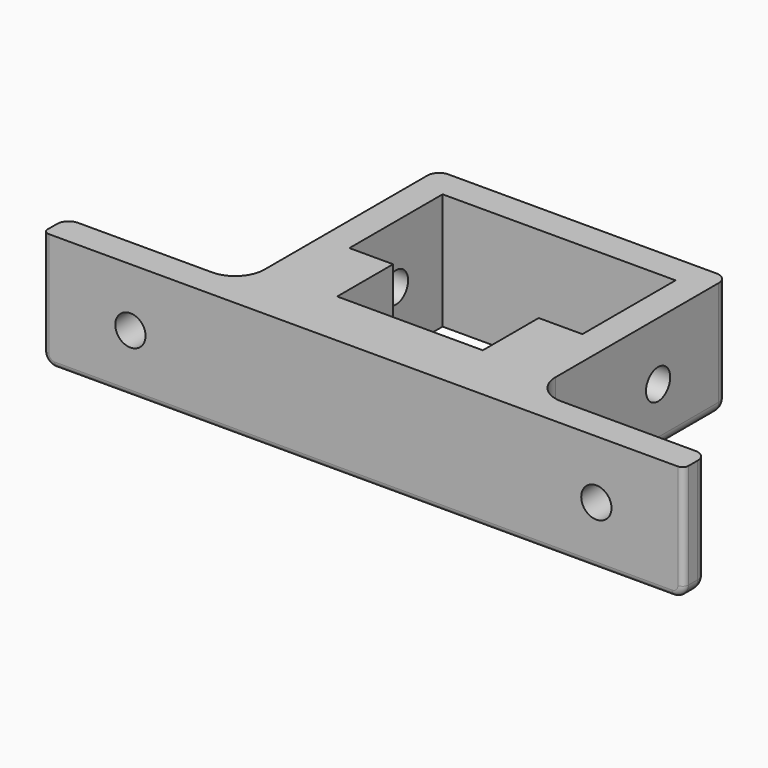
from build123d import *

# Parameters (mm, degrees)
PAD_DEPTH            = 20
SKETCH001_R          = 2.6
POCKET_DEPTH         = 5
SKETCH002_R          = 2.6
POCKET001_DEPTH      = 35.001
POCKET001_DEPTH_BACK = -75.001
FILLET_R             = 5
FILLET001_R          = 2
FILLET002_R          = 2
FILLET003_R          = 1


with BuildPart() as part:
    # Sketch → Pad (new body)
    with BuildSketch(Plane.XY):
        Polygon((-55, 0), (-55, 5), (-25, 5), (-25, 47), (25, 47), (25, 5), (55, 5), (55, 0), align=None)
        Polygon((-20, 42), (-20, 22), (-12.5, 22), (-12.5, 10), (12.5, 10), (12.5, 22), (20, 22), (20, 42), align=None, mode=Mode.SUBTRACT)
    extrude(amount=PAD_DEPTH)

    # Sketch001 (on Face6 of Pad) → Pocket (cut)
    with BuildSketch(Plane(origin=(0, 5, 0), x_dir=(-1, 0, 0), z_dir=(0, 1, 0))):
        with Locations((-40, 10)):
            Circle(SKETCH001_R)
        with Locations((40, 10)):
            Circle(SKETCH001_R)
    extrude(amount=-POCKET_DEPTH, mode=Mode.SUBTRACT)

    # Sketch002 (on Face19 of Pocket) → Pocket001 (cut, two sides)
    with BuildSketch(Plane(origin=(20, 0, 0), x_dir=(0, -1, 0), z_dir=(-1, 0, 0))) as pocket001_sk:
        with Locations((-32, 10)):
            Circle(SKETCH002_R)
    extrude(amount=-POCKET001_DEPTH, mode=Mode.SUBTRACT)
    extrude(pocket001_sk.sketch, amount=-POCKET001_DEPTH_BACK, mode=Mode.SUBTRACT)

    # Fillet
    fillet_edges = [part.edges().sort_by_distance(p)[0] for p in [
        (25, 5, 10),
        (-25, 5, 10),
    ]]
    fillet(fillet_edges, radius=FILLET_R)

    # Fillet001
    fillet001_edges = [part.edges().sort_by_distance(p)[0] for p in [
        (-55, 5, 10),
        (-25, 47, 10),
        (25, 47, 10),
        (55, 5, 10),
    ]]
    fillet(fillet001_edges, radius=FILLET001_R)

    # Fillet002
    fillet002_edges = [part.edges().sort_by_distance(p)[0] for p in [
        (25, 27.5, 0),
    ]]
    fillet(fillet002_edges, radius=FILLET002_R)

    # Fillet003
    fillet003_edges = [part.edges().sort_by_distance(p)[0] for p in [
        (0, 0, 0),
    ]]
    fillet(fillet003_edges, radius=FILLET003_R)


solid = part.part
